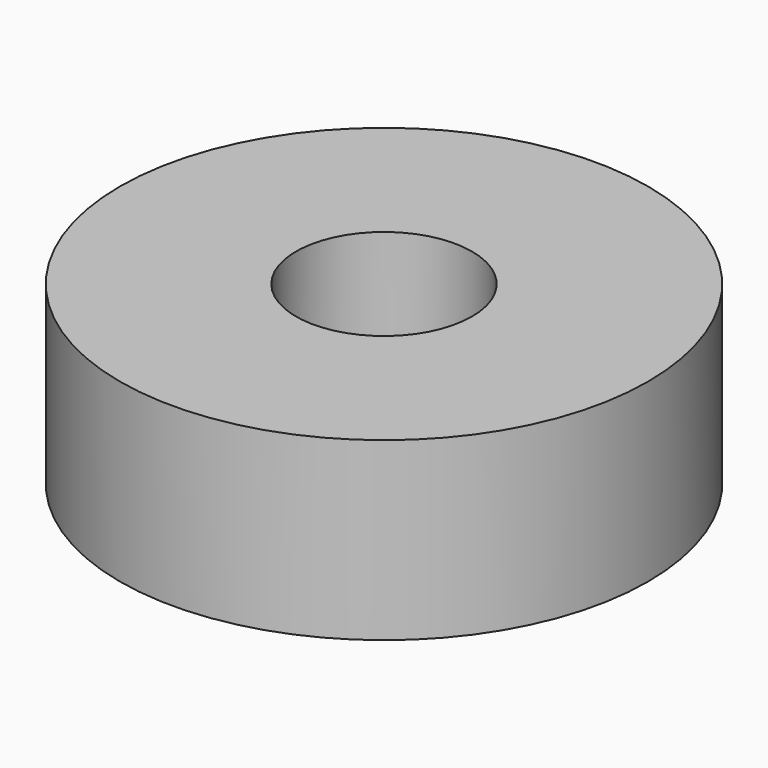
from build123d import *

# Parameters (mm, degrees)
SKETCH_R   = 12
SKETCH_R_2 = 4
PAD_DEPTH  = 8


with BuildPart() as part:
    # Sketch → Pad (new body)
    with BuildSketch(Plane.XY):
        Circle(SKETCH_R)
        Circle(SKETCH_R_2, mode=Mode.SUBTRACT)
    extrude(amount=PAD_DEPTH)


solid = part.part
